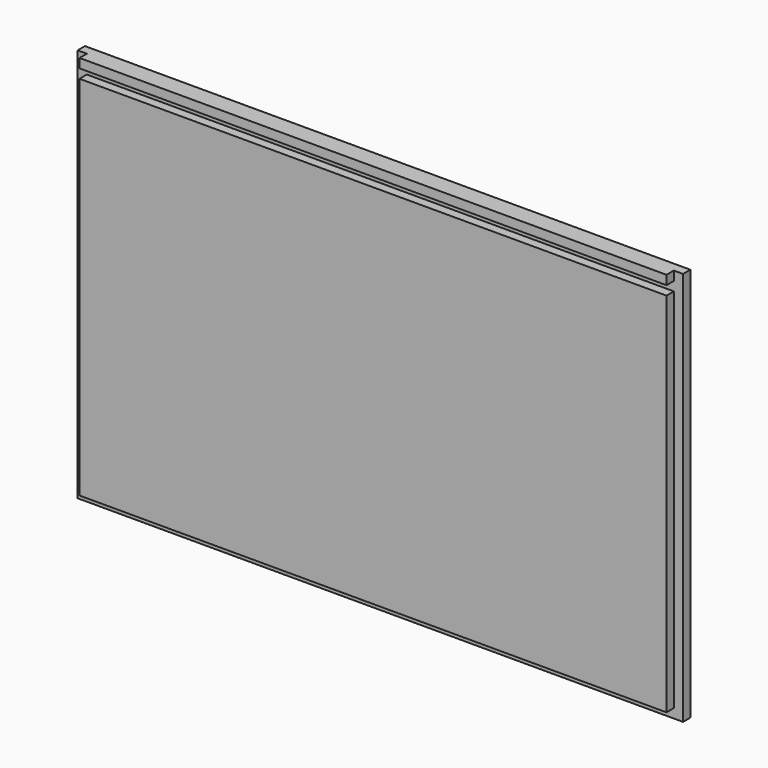
from build123d import *

# Parameters (mm, degrees)
F0_W     = 203.2
F0_H     = 127
F1_DEPTH = 6.35
F2_W     = 3.175
F2_H     = 3.175
F3_DEPTH = 203.2
F4_W     = 3.175
F4_H     = 3.175
F5_DEPTH = 136.525


with BuildPart() as f1:
    # F0 (on Front) → F1 (new body)
    with BuildSketch(Plane.XZ):
        Rectangle(F0_W, F0_H)
    extrude(amount=F1_DEPTH)

    # F2 (on face) → F3 (join)
    with BuildSketch(Plane.YZ.offset(101.6)):
        Polygon((-3.175, 63.5), (0, 63.5), (0, 69.85), (-6.35, 69.85), (-6.35, 66.675), (-3.175, 66.675), align=None)
        with Locations((-1.5875, -65.0875)):
            Rectangle(F2_W, F2_H)
    extrude(amount=-F3_DEPTH)

    # F4 (on face) → F5 (join)
    with BuildSketch(Plane(origin=(0, 0, -66.675), x_dir=(1, 0, 0), z_dir=(0, 0, -1))):
        with Locations((-103.1875, 1.5875)):
            Rectangle(F4_W, F4_H)
        with Locations((103.1875, 1.5875)):
            Rectangle(F4_W, F4_H)
    extrude(amount=-F5_DEPTH)


solid = f1.part
